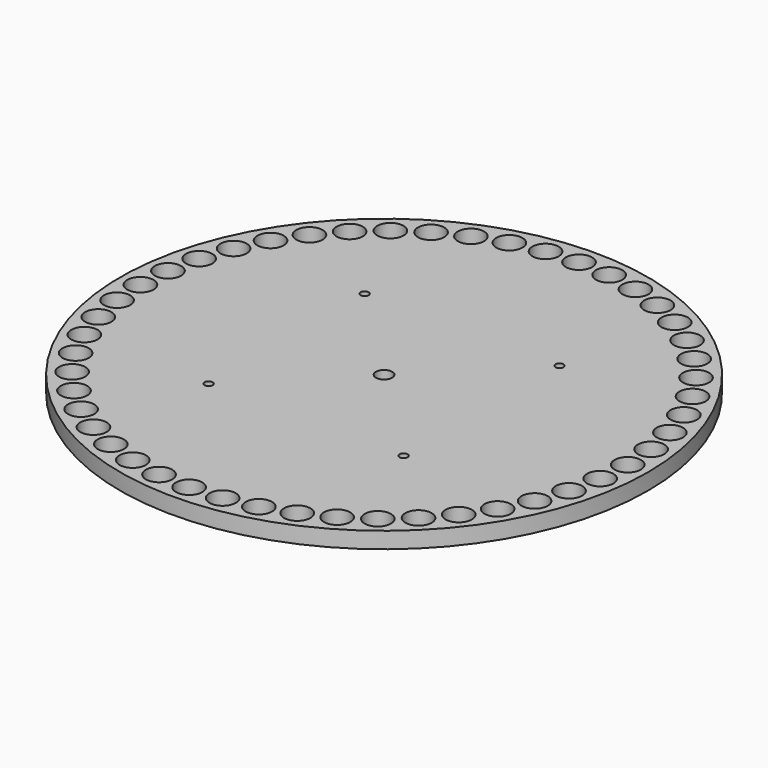
from build123d import *

# Parameters (mm, degrees)
F0_R     = 162.5
F0_R_2   = 8.1
F0_R_3   = 2.5
F0_R_4   = 5
F1_DEPTH = 10


with BuildPart() as f1:
    # F0 (on Top) → F1 (new body)
    with BuildSketch(Plane.XY):
        Circle(F0_R)
        with Locations((-106.066017, -106.066017)):
            Circle(F0_R_2, mode=Mode.SUBTRACT)
        with Locations((-91.314214, -119.003001)):
            Circle(F0_R_2, mode=Mode.SUBTRACT)
        with Locations((-119.003001, -91.314214)):
            Circle(F0_R_2, mode=Mode.SUBTRACT)
        with Locations((-75, -129.903811)):
            Circle(F0_R_2, mode=Mode.SUBTRACT)
        with Locations((-57.402515, -138.58193)):
            Circle(F0_R_2, mode=Mode.SUBTRACT)
        with Locations((-38.822857, -144.888874)):
            Circle(F0_R_2, mode=Mode.SUBTRACT)
        with Locations((-19.578929, -148.716729)):
            Circle(F0_R_2, mode=Mode.SUBTRACT)
        with Locations((-129.903811, -75)):
            Circle(F0_R_2, mode=Mode.SUBTRACT)
        with Locations((-138.58193, -57.402515)):
            Circle(F0_R_2, mode=Mode.SUBTRACT)
        with Locations((-144.888874, -38.822857)):
            Circle(F0_R_2, mode=Mode.SUBTRACT)
        with Locations((-148.716729, -19.578929)):
            Circle(F0_R_2, mode=Mode.SUBTRACT)
        with Locations((-60, -60)):
            Circle(F0_R_3, mode=Mode.SUBTRACT)
        with Locations((0, -150)):
            Circle(F0_R_2, mode=Mode.SUBTRACT)
        with Locations((19.578929, -148.716729)):
            Circle(F0_R_2, mode=Mode.SUBTRACT)
        with Locations((38.822857, -144.888874)):
            Circle(F0_R_2, mode=Mode.SUBTRACT)
        with Locations((57.402515, -138.58193)):
            Circle(F0_R_2, mode=Mode.SUBTRACT)
        with Locations((75, -129.903811)):
            Circle(F0_R_2, mode=Mode.SUBTRACT)
        with Locations((91.314214, -119.003001)):
            Circle(F0_R_2, mode=Mode.SUBTRACT)
        with Locations((106.066017, -106.066017)):
            Circle(F0_R_2, mode=Mode.SUBTRACT)
        with Locations((119.003001, -91.314214)):
            Circle(F0_R_2, mode=Mode.SUBTRACT)
        with Locations((60, -60)):
            Circle(F0_R_3, mode=Mode.SUBTRACT)
        with Locations((129.903811, -75)):
            Circle(F0_R_2, mode=Mode.SUBTRACT)
        with Locations((138.58193, -57.402515)):
            Circle(F0_R_2, mode=Mode.SUBTRACT)
        with Locations((144.888874, -38.822857)):
            Circle(F0_R_2, mode=Mode.SUBTRACT)
        with Locations((148.716729, -19.578929)):
            Circle(F0_R_2, mode=Mode.SUBTRACT)
        with Locations((-150, 0)):
            Circle(F0_R_2, mode=Mode.SUBTRACT)
        with Locations((-148.716729, 19.578929)):
            Circle(F0_R_2, mode=Mode.SUBTRACT)
        with Locations((-144.888874, 38.822857)):
            Circle(F0_R_2, mode=Mode.SUBTRACT)
        with Locations((-138.58193, 57.402515)):
            Circle(F0_R_2, mode=Mode.SUBTRACT)
        with Locations((-129.903811, 75)):
            Circle(F0_R_2, mode=Mode.SUBTRACT)
        with Locations((-60, 60)):
            Circle(F0_R_3, mode=Mode.SUBTRACT)
        with Locations((-119.003001, 91.314214)):
            Circle(F0_R_2, mode=Mode.SUBTRACT)
        with Locations((-106.066017, 106.066017)):
            Circle(F0_R_2, mode=Mode.SUBTRACT)
        with Locations((-91.314214, 119.003001)):
            Circle(F0_R_2, mode=Mode.SUBTRACT)
        with Locations((-75, 129.903811)):
            Circle(F0_R_2, mode=Mode.SUBTRACT)
        with Locations((-57.402515, 138.58193)):
            Circle(F0_R_2, mode=Mode.SUBTRACT)
        with Locations((-38.822857, 144.888874)):
            Circle(F0_R_2, mode=Mode.SUBTRACT)
        with Locations((-19.578929, 148.716729)):
            Circle(F0_R_2, mode=Mode.SUBTRACT)
        Circle(F0_R_4, mode=Mode.SUBTRACT)
        with Locations((60, 60)):
            Circle(F0_R_3, mode=Mode.SUBTRACT)
        with Locations((150, 0)):
            Circle(F0_R_2, mode=Mode.SUBTRACT)
        with Locations((148.716729, 19.578929)):
            Circle(F0_R_2, mode=Mode.SUBTRACT)
        with Locations((144.888874, 38.822857)):
            Circle(F0_R_2, mode=Mode.SUBTRACT)
        with Locations((138.58193, 57.402515)):
            Circle(F0_R_2, mode=Mode.SUBTRACT)
        with Locations((129.903811, 75)):
            Circle(F0_R_2, mode=Mode.SUBTRACT)
        with Locations((0, 150)):
            Circle(F0_R_2, mode=Mode.SUBTRACT)
        with Locations((19.578929, 148.716729)):
            Circle(F0_R_2, mode=Mode.SUBTRACT)
        with Locations((38.822857, 144.888874)):
            Circle(F0_R_2, mode=Mode.SUBTRACT)
        with Locations((57.402515, 138.58193)):
            Circle(F0_R_2, mode=Mode.SUBTRACT)
        with Locations((75, 129.903811)):
            Circle(F0_R_2, mode=Mode.SUBTRACT)
        with Locations((119.003001, 91.314214)):
            Circle(F0_R_2, mode=Mode.SUBTRACT)
        with Locations((91.314214, 119.003001)):
            Circle(F0_R_2, mode=Mode.SUBTRACT)
        with Locations((106.066017, 106.066017)):
            Circle(F0_R_2, mode=Mode.SUBTRACT)
    extrude(amount=F1_DEPTH)


solid = f1.part
